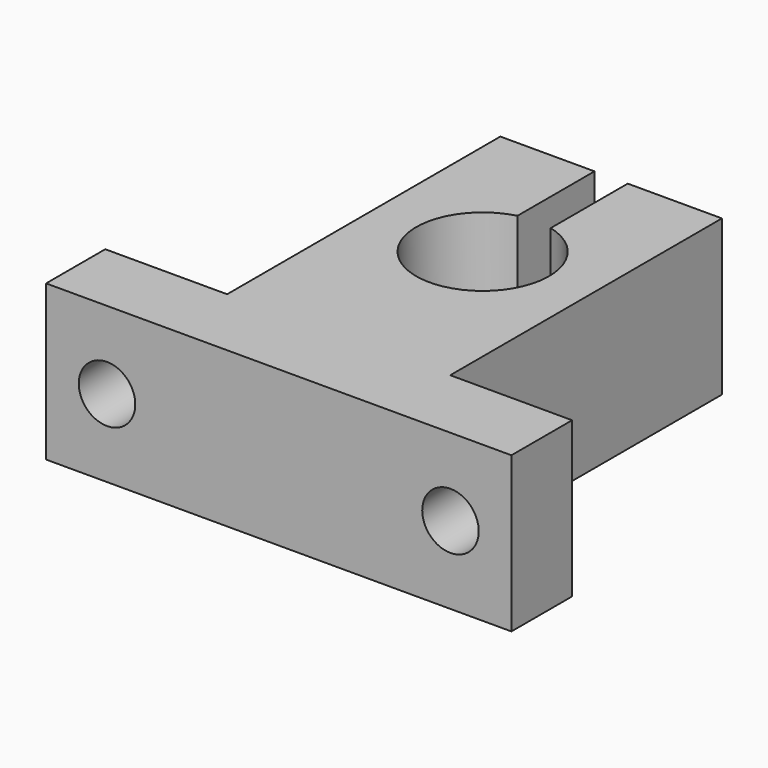
from build123d import *

# Parameters (mm, degrees)
F1_DEPTH = 14
F3_D     = 5.1


with BuildPart() as f1:
    # F0 (on Top) → F1 (new body)
    with BuildSketch(Plane.XY):
        with BuildLine():
            Line((-68.451825, 6.676397), (-68.451825, 0))
            Line((-68.451825, 0), (-26.451825, 0))
            Line((-26.451825, 0), (-26.451825, 6.846438))
            Line((-26.451825, 6.846438), (-37.451825, 6.846438))
            Line((-37.451825, 6.846438), (-37.451825, 37.5))
            Line((-37.451825, 37.5), (-45.951825, 37.5))
            Line((-45.951825, 37.5), (-45.951825, 28.809475))
            ThreePointArc((-45.951825, 28.809475), (-47.451825, 17), (-48.951825, 28.809475))
            Line((-48.951825, 28.809475), (-48.951825, 37.5))
            Line((-48.951825, 37.5), (-57.451825, 37.5))
            Line((-57.451825, 37.5), (-57.451825, 6.676397))
            Line((-57.451825, 6.676397), (-68.451825, 6.676397))
        make_face()
    extrude(amount=F1_DEPTH)

    # F3 (through all)
    with Locations(Plane.XZ):
        with Locations((-62.951825, 7), (-31.951825, 7)):
            Hole(F3_D / 2)


solid = f1.part
